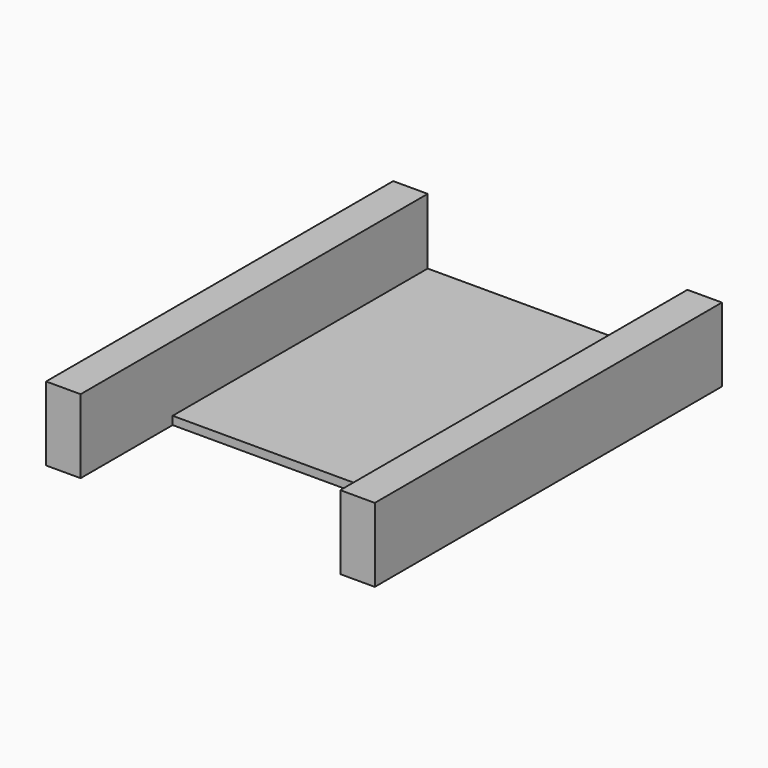
from build123d import *

# Parameters (mm, degrees)
F0_W     = 25.4
F0_H     = 33.528
F1_DEPTH = 5.715
F3_W     = 20.066
F3_H     = 33.655
F4_DEPTH = 5.08
F5_W     = 20.066
F5_H     = 8.89
F6_DEPTH = 25.4


with BuildPart() as f1:
    # F0 (on Top) → F1 (new body)
    with BuildSketch(Plane.XY):
        Rectangle(F0_W, F0_H)
    extrude(amount=F1_DEPTH)

    # F3 (on face) → F4 (cut)
    with BuildSketch(Plane.XY.offset(5.715)):
        Rectangle(F3_W, F3_H)
    extrude(amount=-F4_DEPTH, mode=Mode.SUBTRACT)

    # F5 (on face) → F6 (cut)
    with BuildSketch(Plane.XY.offset(0.635)):
        with Locations((0, -12.319)):
            Rectangle(F5_W, F5_H)
    extrude(amount=-F6_DEPTH, mode=Mode.SUBTRACT)


solid = f1.part
